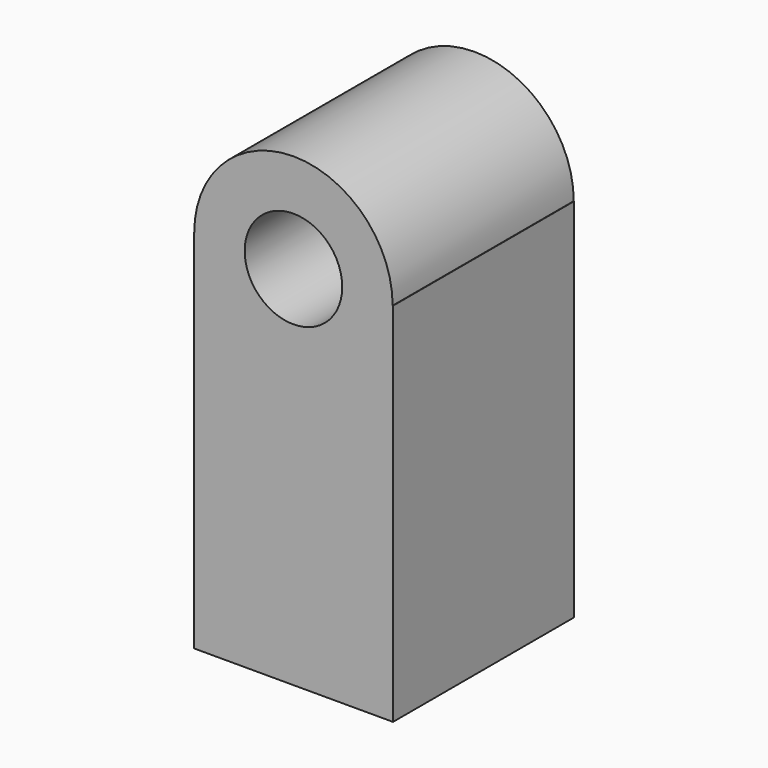
from build123d import *

# Parameters (mm, degrees)
F0_R     = 15.926715
F1_DEPTH = 73.914


with BuildPart() as f1:
    # F0 (on Front) → F1 (new body)
    with BuildSketch(Plane.XZ):
        with BuildLine():
            Line((-32.508995, -59.810236), (32.508995, -59.810236))
            Line((32.508995, -59.810236), (32.508995, 59.810236))
            Line((32.508995, 59.810236), (32.387727, 59.810236))
            ThreePointArc((32.387727, 59.810236), (0, 92.197963), (-32.387727, 59.810236))
            Line((-32.387727, 59.810236), (-32.508995, 59.810236))
            Line((-32.508995, 59.810236), (-32.508995, -59.810236))
        make_face()
        with Locations((0, 59.810236)):
            Circle(F0_R, mode=Mode.SUBTRACT)
    extrude(amount=F1_DEPTH)


solid = f1.part
